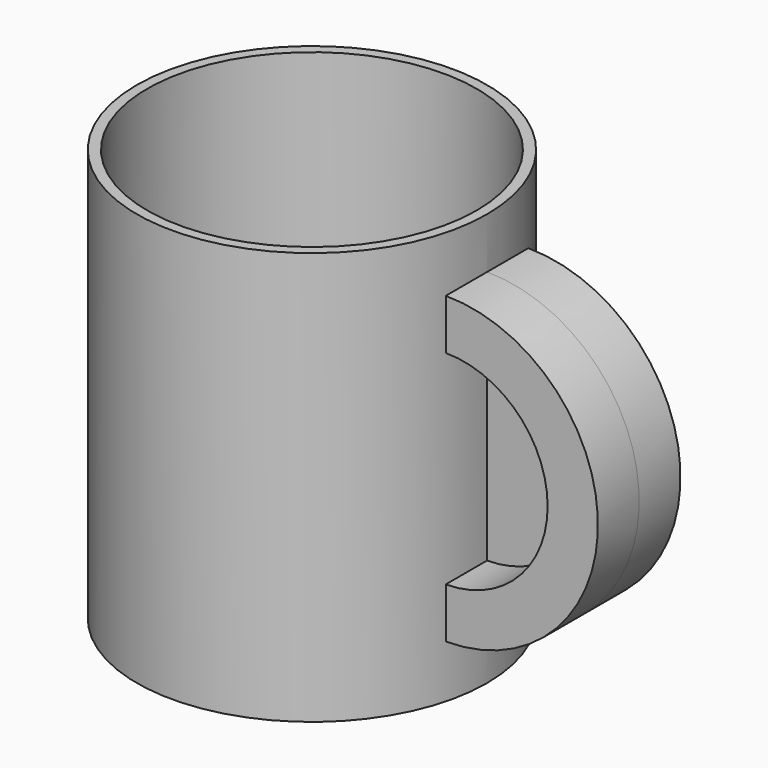
from build123d import *

# Parameters (mm, degrees)
F0_R     = 43.1035
F1_DEPTH = 101.6
F3_T     = -2.54
F4_DEPTH = 12.7
F5_DEPTH = 12.7


with BuildPart() as f1:
    # F0 (on Top) → F1 (new body)
    with BuildSketch(Plane.XY):
        Circle(F0_R)
    extrude(amount=F1_DEPTH)

    # F3
    f3_openings = [f1.faces().sort_by_distance(p)[0] for p in [
        (0, 0, 101.6),
    ]]
    offset(amount=F3_T, openings=f3_openings)

    # F2 (on Front) → F4 (join)
    with BuildSketch(Plane.XZ):
        with BuildLine():
            Line((43.103412, 26.557105), (43.103412, 14.17221))
            ThreePointArc((43.103412, 14.17221), (80.562872, 51.63167), (43.103412, 89.091131))
            Line((43.103412, 89.091131), (43.103412, 76.706236))
            ThreePointArc((43.103412, 76.706236), (68.177977, 51.63167), (43.103412, 26.557105))
        make_face()
    extrude(amount=F4_DEPTH)

    # F4_face (on face) → F5 (join)
    with BuildSketch(Plane(origin=(63.268901, 0, 51.63167), x_dir=(1, 0, 0), z_dir=(0, 1, 0))):
        with BuildLine():
            Line((-20.165401, -25.074566), (-20.165401, -37.459461))
            ThreePointArc((-20.165401, -37.459461), (17.293972, 0), (-20.165401, 37.459461))
            Line((-20.165401, 37.459461), (-20.165401, 25.074566))
            ThreePointArc((-20.165401, 25.074566), (4.909077, 0), (-20.165401, -25.074566))
        make_face()
    extrude(amount=F5_DEPTH)


solid = f1.part
